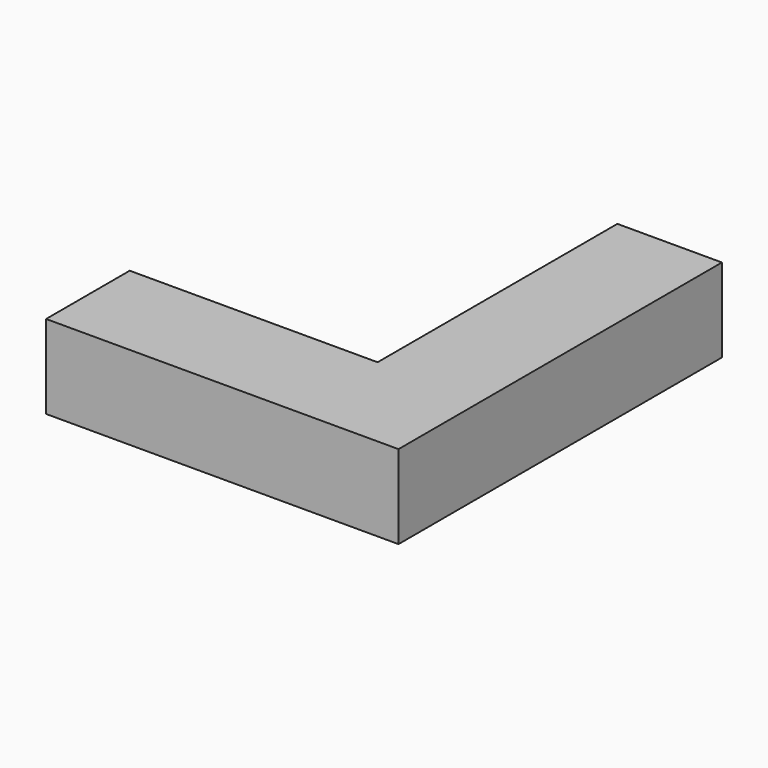
from build123d import *

# Parameters (mm, degrees)
F3_DEPTH = 609.6


with BuildPart() as f3:
    # F2 (on face) → F3 (new body)
    with BuildSketch(Plane.XY):
        Polygon((5706.745, -1219.2), (8275.32, -1219.2), (8275.32, 1727.2), (7513.32, 1727.2), (7513.32, -457.2), (5706.745, -457.2), align=None)
    extrude(amount=F3_DEPTH)


solid = f3.part
